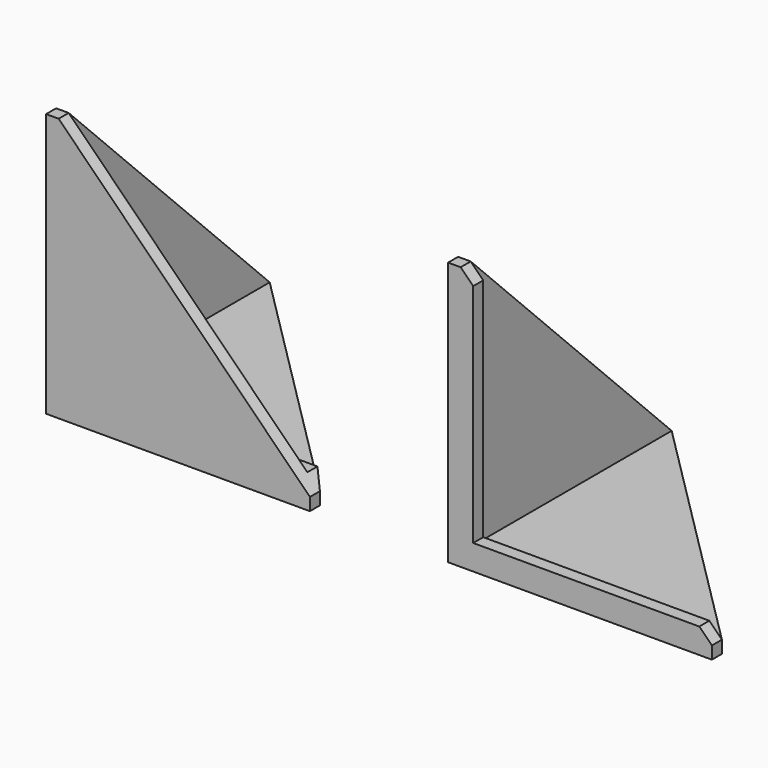
from build123d import *

# Parameters (mm, degrees)
F1_DEPTH  = 2.5
F2_W      = 50
F2_H      = 2.5
F3_DEPTH  = 2.5
F5_DEPTH  = 2.5
F8_DEPTH  = 2.5
F9_DEPTH  = 2.5
F10_DEPTH = 2.5


with BuildPart() as f1:
    # F0 (on Top) → F1 (new body)
    with BuildSketch(Plane.XY):
        Polygon((24.4987318665, -20.5812184513), (-23.0012681335, 26.9187815487), (-23.0012681335, -20.5812184513), align=None)
        Polygon((24.4987318665, -20.5812184513), (-23.0012681335, -20.5812184513), (-23.0012681335, -23.0812184513), (26.9987318665, -23.0812184513), align=None)
        Polygon((24.4987318665, -20.5812184513), (-23.0012681335, -20.5812184513), (-23.0012681335, -23.0812184513), (26.9987318665, -23.0812184513), align=None)
    extrude(amount=-F1_DEPTH)

    # F2 (on face) → F3 (join)
    with BuildSketch(Plane.XZ.offset(23.0812184513)):
        Polygon((-23.0012681335, 50), (-23.0012681335, 0), (26.9987318665, 0), align=None)
        with Locations((1.9987318665, -1.25)):
            Rectangle(F2_W, F2_H)
    extrude(amount=F3_DEPTH)

    # F4 (on face) → F5 (join)
    with BuildSketch(Plane(origin=(-23.0012681335, 0, 0), x_dir=(0, -1, 0), z_dir=(-1, 0, 0))):
        Polygon((23.0812184513, 50), (-26.9187815487, 0), (23.0812184513, 0), align=None)
        Polygon((23.0812184513, 0), (-26.9187815487, 0), (-26.9187815487, -2.5), (25.5812184513, -2.5), (25.5812184513, 50), (23.0812184513, 50), align=None)
    extrude(amount=F5_DEPTH)


with BuildPart() as f6_1:
    # F6: copy of F1
    add(f1.part.moved(Location((80, 0, 0))))

    # F7 (on face) → F8 (cut)
    with BuildSketch(Plane.XZ.offset(25.5812184513)):
        Polygon((104.4987318665, 2.5), (59.4987318665, 47.5), (59.4987318665, 2.5), align=None)
    extrude(amount=-F8_DEPTH, mode=Mode.SUBTRACT)


with BuildPart() as f1_1:
    add(f1.part)

    # F0 (on Top) → F9 (join)
    with BuildSketch(Plane.XY):
        Polygon((24.4987318665, -20.5812184513), (-23.0012681335, -20.5812184513), (-23.0012681335, -23.0812184513), (26.9987318665, -23.0812184513), align=None)
    extrude(amount=F9_DEPTH)

    # F10 (cut): a face of the model
    f10_faces = [f1_1.faces().sort_by_distance(p)[0] for p in [
        (26.1653985331, -23.0812184513, 1.6666666667),
    ]]
    extrude(f10_faces, amount=-F10_DEPTH, mode=Mode.SUBTRACT)


solid = Compound([f6_1.part, f1_1.part])
